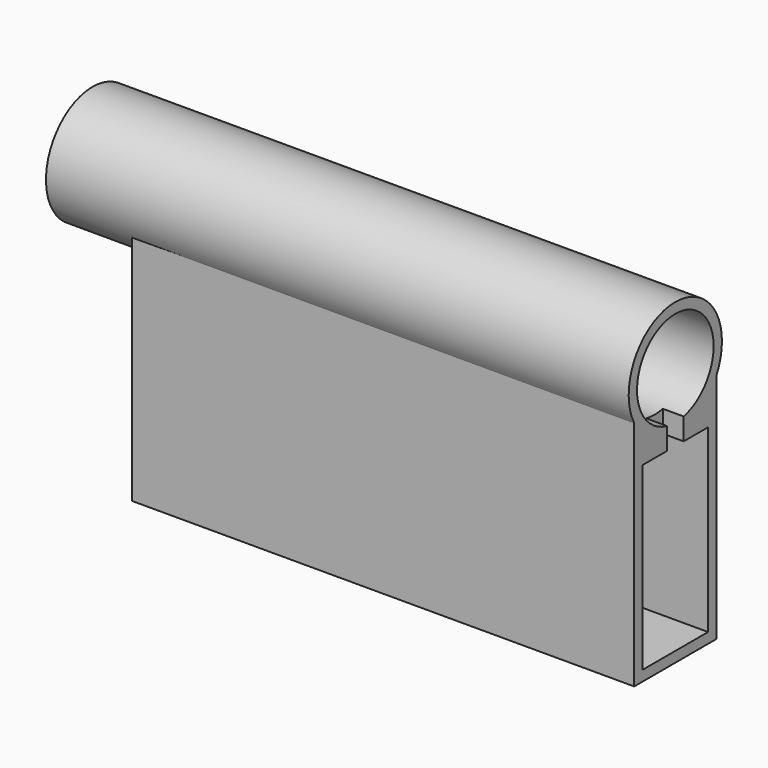
from build123d import *

# Parameters (mm, degrees)
F0_R     = 17.78
F0_R_2   = 14.605
F1_DEPTH = 177.8
F2_W     = 25
F2_H     = 55
F3_DEPTH = 150
F5_DEPTH = 3.175
F6_W     = 6.35
F6_H     = 13.6751307396
F7_DEPTH = 6.35


with BuildPart() as f1:
    # F0 (on Right) → F1 (new body)
    with BuildSketch(Plane.YZ):
        Circle(F0_R)
        Circle(F0_R_2, mode=Mode.SUBTRACT)
    extrude(amount=-F1_DEPTH)

    # F2 (on Right) → F3 (join)
    with BuildSketch(Plane.YZ):
        Polygon((-7.21e-08, -17.78), (-15.675, -17.78), (-15.675, -79.13), (15.675, -79.13), (15.675, -17.78), align=None)
        with Locations((0, -48.455)):
            Rectangle(F2_W, F2_H, mode=Mode.SUBTRACT)
        with BuildLine():
            Line((-15.675, -8.39182787), (-15.675, -17.78))
            Line((-15.675, -17.78), (-7.21e-08, -17.78))
            ThreePointArc((-7.21e-08, -17.78), (-9.1356910412, -15.2534438472), (-15.675, -8.39182787))
        make_face()
        with BuildLine():
            ThreePointArc((15.675, -8.39182787), (9.1356909794, -15.2534438842), (-7.21e-08, -17.78))
            Line((-7.21e-08, -17.78), (15.675, -17.78))
            Line((15.675, -17.78), (15.675, -8.39182787))
        make_face()
    extrude(amount=-F3_DEPTH)

    # F4 (on face) → F5 (join)
    with BuildSketch(Plane(origin=(-150, 0, 0), x_dir=(0, -1, 0), z_dir=(-1, 0, 0))):
        Polygon((-15.675, -17.78), (-15.675, -79.13), (15.675, -79.13), (15.675, -17.78), (0, -17.78), align=None)
        with BuildLine():
            Line((-15.675, -8.39182787), (-15.675, -17.78))
            Line((-15.675, -17.78), (0, -17.78))
            ThreePointArc((0, -17.78), (-9.1356910103, -15.2534438657), (-15.675, -8.39182787))
        make_face()
        with BuildLine():
            Line((0, -17.78), (15.675, -17.78))
            Line((15.675, -17.78), (15.675, -8.39182787))
            ThreePointArc((15.675, -8.39182787), (9.1356910103, -15.2534438657), (0, -17.78))
        make_face()
    extrude(amount=F5_DEPTH)

    # F6 (on Right) → F7 (cut)
    with BuildSketch(Plane.YZ):
        with Locations((0, -18.0660898343)):
            Rectangle(F6_W, F6_H)
    extrude(amount=-F7_DEPTH, mode=Mode.SUBTRACT)


solid = f1.part
